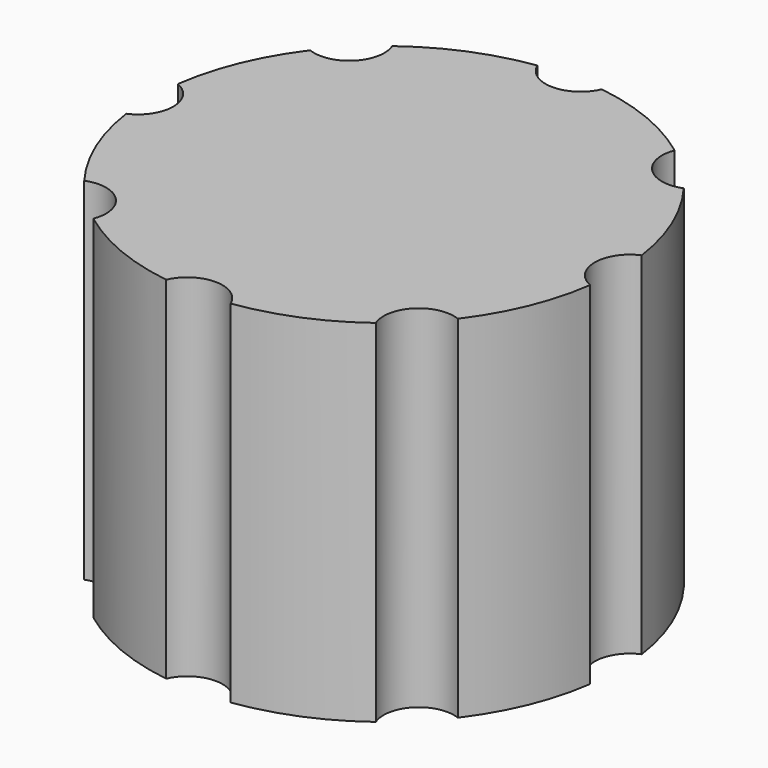
from build123d import *

# Parameters (mm, degrees)
CYLINDER001_R     = 1.5
CYLINDER001_DEPTH = 20
ARRAY_COUNT       = 8
CYLINDER_R        = 10
CYLINDER_DEPTH    = 15


with BuildPart() as array:
    # Cylinder001 → Cylinder001 (new body)
    with BuildSketch(Plane(origin=(10.5, 0, -2), x_dir=(1, 0, 0), z_dir=(0, 0, 1))):
        Circle(CYLINDER001_R)
    extrude(amount=CYLINDER001_DEPTH)

    # Array: Array ×8 about axis
    array_axis = Axis((0, 0, 1), (0, 0, 1))


with BuildPart() as array_1:
    add(array.part)
    for i in range(1, ARRAY_COUNT):
        add(array.part.rotate(array_axis, i * 360 / ARRAY_COUNT))


with BuildPart() as obj1:
    # Cylinder → Cylinder (new body)
    with BuildSketch(Plane.XY):
        Circle(CYLINDER_R)
    extrude(amount=CYLINDER_DEPTH)

    # Cut: cut Array
    add(array_1.part, mode=Mode.SUBTRACT)


solid = obj1.part
